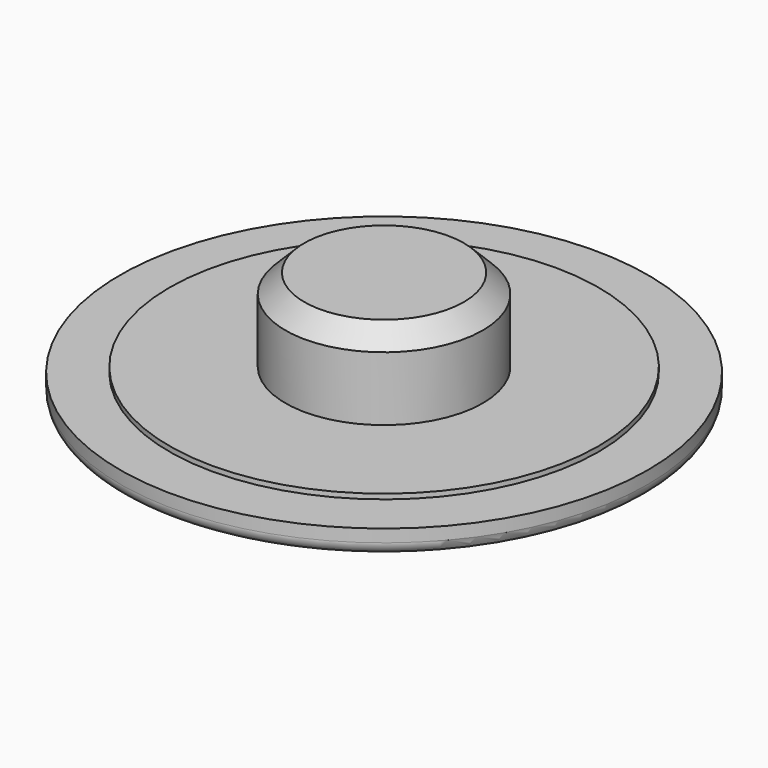
from build123d import *

# Parameters (mm, degrees)
F0_R     = 10.5
F1_DEPTH = 1
F2_R     = 3.925
F3_DEPTH = 3.5
F4_SIZE  = 0.75
F5_R     = 0.5
F6_R     = 8.536956
F7_DEPTH = 0.2


with BuildPart() as f1:
    # F0 (on Top) → F1 (new body)
    with BuildSketch(Plane.XY):
        Circle(F0_R)
    extrude(amount=F1_DEPTH)

    # F2 (on face) → F3 (join)
    with BuildSketch(Plane.XY.offset(1)):
        Circle(F2_R)
    extrude(amount=F3_DEPTH)

    # F4
    f4_edges = [f1.edges().sort_by_distance(p)[0] for p in [
        (-3.925, 0, 4.5),
    ]]
    chamfer(f4_edges, length=F4_SIZE)

    # F5
    f5_edges = [f1.edges().sort_by_distance(p)[0] for p in [
        (-10.5, 0, 0),
    ]]
    fillet(f5_edges, radius=F5_R)

    # F6 (on face) → F7 (join)
    with BuildSketch(Plane.XY.offset(1)):
        Circle(F6_R)
    extrude(amount=F7_DEPTH)


solid = f1.part
